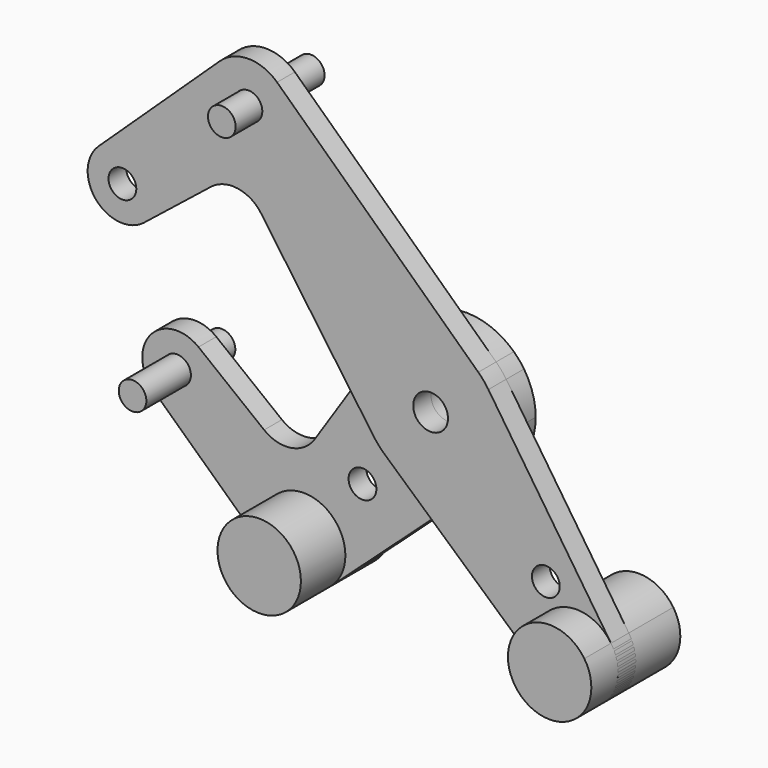
from build123d import *

# Parameters (mm, degrees)
F0_R     = 3.175
F0_R_2   = 3.96875
F2_DEPTH = 5.08
F3_DEPTH = 5.08
F6_DEPTH = 25.4
F4_R     = 3.1539027902
F5_R     = 9.525
F5_R_2   = 3.1539027902


with BuildPart() as f2:
    # F0 (on Front) → F2 (new body)
    with BuildSketch(Plane.XZ):
        with BuildLine():
            ThreePointArc((-13.2524193062, 8.7400805221), (-1.834314477, 15.7686687897), (10.8922900307, 11.5487507067))
            Line((10.8922900307, 11.5487507067), (-35.0711574392, 54.8995176744))
            ThreePointArc((-35.0711574392, 54.8995176744), (-32.8608164346, 51.7436071154), (-32.0815314576, 47.9702672503))
            ThreePointArc((-32.0815314576, 47.9702672503), (-45.3798713227, 39.2245522274), (-48.1419054761, 54.8995176744))
            Line((-48.1419054761, 54.8995176744), (-75.8348368232, 28.7807237291))
            ThreePointArc((-75.8348368232, 28.7807237291), (-67.2442419203, 30.2944442282), (-62.4511918078, 23.0063483758))
            ThreePointArc((-62.4511918078, 23.0063483758), (-63.237943921, 19.5609585706), (-65.4422370763, 16.798571653))
            Line((-65.4422370763, 16.798571653), (-50.1509863937, 28.9828821829))
            ThreePointArc((-50.1509863937, 28.9828821829), (-44.0823996147, 30.6328866939), (-38.7182233604, 27.3502241323))
            Line((-38.7182233604, 27.3502241323), (-19.2147683858, -0.3005169703))
            Line((-19.2147683858, -0.3005169703), (-13.2524193062, 8.7400805221))
        make_face()
        with BuildLine():
            ThreePointArc((-32.0815314576, 47.9702672503), (-32.8608164346, 51.7436071154), (-35.0711574392, 54.8995176744))
            ThreePointArc((-35.0711574392, 54.8995176744), (-41.6065314576, 57.4952672503), (-48.1419054761, 54.8995176744))
            ThreePointArc((-48.1419054761, 54.8995176744), (-45.3798713227, 39.2245522274), (-32.0815314576, 47.9702672503))
        make_face()
        with Locations((-41.6065314576, 47.9702672503)):
            Circle(F0_R, mode=Mode.SUBTRACT)
        with BuildLine():
            ThreePointArc((-62.4511918078, 23.0063483758), (-67.2442419203, 30.2944442282), (-75.8348368232, 28.7807237291))
            ThreePointArc((-75.8348368232, 28.7807237291), (-76.3849752141, 17.8055319436), (-65.4422370763, 16.798571653))
            ThreePointArc((-65.4422370763, 16.798571653), (-63.237943921, 19.5609585706), (-62.4511918078, 23.0063483758))
        make_face()
        with Locations((-70.3886918078, 23.0063483758)):
            Circle(F0_R, mode=Mode.SUBTRACT)
        with BuildLine():
            ThreePointArc((15.875, 0), (15.1912005478, 4.609018433), (13.1987101208, 8.820979319))
            ThreePointArc((13.1987101208, 8.820979319), (12.1224690662, 10.2499448164), (10.8922900307, 11.5487507067))
            ThreePointArc((10.8922900307, 11.5487507067), (-1.834314477, 15.7686687897), (-13.2524193062, 8.7400805221))
            ThreePointArc((-13.2524193062, 8.7400805221), (-15.8730587934, -0.2482529814), (-12.9726166036, -9.1502373442))
            ThreePointArc((-12.9726166036, -9.1502373442), (-11.8607666217, -10.5516747555), (-10.5983019047, -11.8191210221))
            ThreePointArc((-10.5983019047, -11.8191210221), (0.0485522706, -15.8749257534), (10.6703987497, -11.7540722953))
            ThreePointArc((10.6703987497, -11.7540722953), (14.5156502636, -6.4274040191), (15.875, 0))
        make_face()
        Circle(F0_R_2, mode=Mode.SUBTRACT)
        with BuildLine():
            Line((-10.5983019047, -11.8191210221), (0.0653932355, -21.3813431455))
            Line((0.0653932355, -21.3813431455), (10.6703987497, -11.7540722953))
            ThreePointArc((10.6703987497, -11.7540722953), (0.0485522706, -15.8749257534), (-10.5983019047, -11.8191210221))
        make_face()
        with BuildLine():
            ThreePointArc((-12.9726166036, -9.1502373442), (-15.8730587934, -0.2482529814), (-13.2524193062, 8.7400805221))
            Line((-13.2524193062, 8.7400805221), (-19.2147683858, -0.3005169703))
            Line((-19.2147683858, -0.3005169703), (-12.9726166036, -9.1502373442))
        make_face()
        with BuildLine():
            ThreePointArc((26.9262440233, -45.4676864135), (27.0442454474, -31.1806737127), (41.2044512386, -33.0836262089))
            Line((41.2044512386, -33.0836262089), (13.1987101208, 8.820979319))
            ThreePointArc((13.1987101208, 8.820979319), (15.1912005478, 4.609018433), (15.875, 0))
            ThreePointArc((15.875, 0), (14.5156502636, -6.4274040191), (10.6703987497, -11.7540722953))
            Line((10.6703987497, -11.7540722953), (0.0653932355, -21.3813431455))
            Line((0.0653932355, -21.3813431455), (26.9262440233, -45.4676864135))
        make_face()
        with Locations((26.3222689506, -25.5025770961)):
            Circle(F0_R, mode=Mode.SUBTRACT)
        with BuildLine():
            ThreePointArc((26.9262440233, -45.4676864135), (37.1682864336, -47.0737686401), (42.8102251661, -38.3762138003))
            ThreePointArc((42.8102251661, -38.3762138003), (42.3999454948, -35.6108027404), (41.2044512386, -33.0836262089))
            ThreePointArc((41.2044512386, -33.0836262089), (27.0442454474, -31.1806737127), (26.9262440233, -45.4676864135))
        make_face()
        with Locations((33.2852251661, -38.3762138003)):
            Circle(F0_R, mode=Mode.SUBTRACT)
    extrude(amount=F2_DEPTH)


with BuildPart() as f3:
    # F0 (on Front) → F3 (new body)
    with BuildSketch(Plane.XZ):
        with BuildLine():
            ThreePointArc((15.875, 0), (15.1912005478, 4.609018433), (13.1987101208, 8.820979319))
            ThreePointArc((13.1987101208, 8.820979319), (12.1224690662, 10.2499448164), (10.8922900307, 11.5487507067))
            ThreePointArc((10.8922900307, 11.5487507067), (-1.834314477, 15.7686687897), (-13.2524193062, 8.7400805221))
            ThreePointArc((-13.2524193062, 8.7400805221), (-15.8730587934, -0.2482529814), (-12.9726166036, -9.1502373442))
            ThreePointArc((-12.9726166036, -9.1502373442), (-11.8607666217, -10.5516747555), (-10.5983019047, -11.8191210221))
            ThreePointArc((-10.5983019047, -11.8191210221), (0.0485522706, -15.8749257534), (10.6703987497, -11.7540722953))
            ThreePointArc((10.6703987497, -11.7540722953), (14.5156502636, -6.4274040191), (15.875, 0))
        make_face()
        Circle(F0_R_2, mode=Mode.SUBTRACT)
        with BuildLine():
            ThreePointArc((-12.9726166036, -9.1502373442), (-15.8730587934, -0.2482529814), (-13.2524193062, 8.7400805221))
            Line((-13.2524193062, 8.7400805221), (-19.2147683858, -0.3005169703))
            Line((-19.2147683858, -0.3005169703), (-12.9726166036, -9.1502373442))
        make_face()
        with BuildLine():
            Line((-10.5983019047, -11.8191210221), (0.0653932355, -21.3813431455))
            Line((0.0653932355, -21.3813431455), (10.6703987497, -11.7540722953))
            ThreePointArc((10.6703987497, -11.7540722953), (0.0485522706, -15.8749257534), (-10.5983019047, -11.8191210221))
        make_face()
        with BuildLine():
            Line((-26.647623873, -45.6315380732), (0.0653932355, -21.3813431455))
            Line((0.0653932355, -21.3813431455), (-10.5983019047, -11.8191210221))
            ThreePointArc((-10.5983019047, -11.8191210221), (-11.8607666217, -10.5516747555), (-12.9726166036, -9.1502373442))
            Line((-12.9726166036, -9.1502373442), (-19.2147683858, -0.3005169703))
            Line((-19.2147683858, -0.3005169703), (-30.5474012326, -17.4839744853))
            ThreePointArc((-30.5474012326, -17.4839744853), (-35.9047663103, -20.9493627188), (-42.0820013957, -19.3518512525))
            Line((-42.0820013957, -19.3518512525), (-57.0757936348, -7.5537803256))
            ThreePointArc((-57.0757936348, -7.5537803256), (-54.8440071189, -10.3244537385), (-54.0466841448, -13.7916973539))
            ThreePointArc((-54.0466841448, -13.7916973539), (-58.817458973, -21.070142101), (-67.394906617, -19.5992776228))
            Line((-67.394906617, -19.5992776228), (-39.5427300894, -45.5481910186))
            ThreePointArc((-39.5427300894, -45.5481910186), (-36.849933329, -29.8449609995), (-23.5248631228, -38.579094696))
            ThreePointArc((-23.5248631228, -38.579094696), (-24.3404729646, -42.4355371074), (-26.647623873, -45.6315380732))
        make_face()
        with Locations((-19.6233562292, -22.9063374758)):
            Circle(F0_R, mode=Mode.SUBTRACT)
        with BuildLine():
            ThreePointArc((-57.0757936348, -7.5537803256), (-68.0121676911, -8.627656241), (-67.394906617, -19.5992776228))
            ThreePointArc((-67.394906617, -19.5992776228), (-58.817458973, -21.070142101), (-54.0466841448, -13.7916973539))
            ThreePointArc((-54.0466841448, -13.7916973539), (-54.8440071189, -10.3244537385), (-57.0757936348, -7.5537803256))
        make_face()
        with Locations((-61.9841841448, -13.7916973539)):
            Circle(F0_R, mode=Mode.SUBTRACT)
        with BuildLine():
            ThreePointArc((-39.5427300894, -45.5481910186), (-33.1114263313, -48.1038957423), (-26.647623873, -45.6315380732))
            ThreePointArc((-26.647623873, -45.6315380732), (-24.3404729646, -42.4355371074), (-23.5248631228, -38.579094696))
            ThreePointArc((-23.5248631228, -38.579094696), (-36.849933329, -29.8449609995), (-39.5427300894, -45.5481910186))
        make_face()
        with Locations((-33.0498631228, -38.579094696)):
            Circle(F0_R, mode=Mode.SUBTRACT)
    extrude(amount=-F3_DEPTH)


with BuildPart() as f6:
    # F4 (on offset) → F6 (new body)
    with BuildSketch(Plane.XZ.offset(12.7)):
        with BuildLine():
            ThreePointArc((41.2044512386, -33.0836262089), (27.0442454474, -31.1806737127), (26.9262440233, -45.4676864135))
            ThreePointArc((26.9262440233, -45.4676864135), (39.5262048847, -45.5717538878), (41.2044512386, -33.0836262089))
        make_face()
    extrude(amount=-F6_DEPTH)


with BuildPart() as f6b:
    # F4 (on offset) → F6, piece 2 (new body)
    with BuildSketch(Plane.XZ.offset(12.7)):
        with Locations((-41.5921546519, 47.9698292911)):
            Circle(F4_R)
    extrude(amount=-F6_DEPTH)


with BuildPart() as f6c:
    # F5 (on offset) → F6, piece 3 (new body)
    with BuildSketch(Plane.XZ.offset(12.7)):
        with Locations((-33.0498631228, -38.579094696)):
            Circle(F5_R)
    extrude(amount=-F6_DEPTH)


with BuildPart() as f6d:
    # F5 (on offset) → F6, piece 4 (new body)
    with BuildSketch(Plane.XZ.offset(12.7)):
        with Locations((-61.9752332568, -13.7877808884)):
            Circle(F5_R_2)
    extrude(amount=-F6_DEPTH)


solid = Compound([f2.part, f3.part, f6.part, f6b.part, f6c.part, f6d.part])
